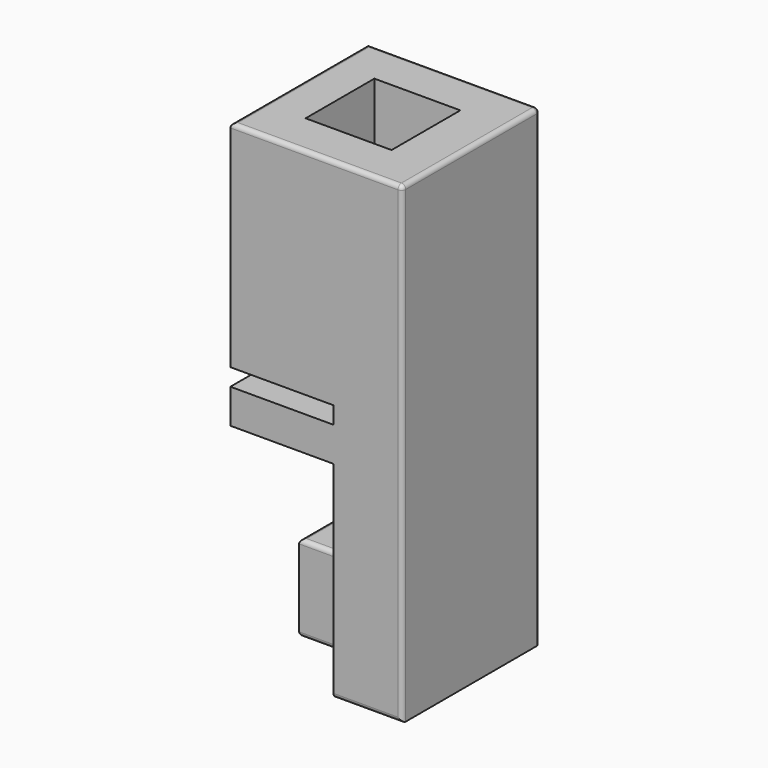
from build123d import *

# Parameters (mm, degrees)
F0_W     = 12
F0_H     = 4
F1_DEPTH = 20
F2_W     = 5
F2_H     = 10
F3_DEPTH = 10
F4_DEPTH = 20
F5_R     = 0.5
F6_W     = 10
F6_H     = 10
F7_DEPTH = 15


with BuildPart() as f1:
    # F0 (on Front) → F1 (new body)
    with BuildSketch(Plane.XZ):
        Polygon((2.1224494493, 11), (-17.8775505507, 11), (-17.8775505507, 6), (-5.8775505507, 6), (2.1224494493, 6), align=None)
        Polygon((2.1224494493, -24), (2.1224494493, 6), (-5.8775505507, 6), (-5.8775505507, 4), (-5.8775505507, 0), (-5.8775505507, -14), (-5.8775505507, -24), align=None)
        with Locations((-11.8775505507, 2)):
            Rectangle(F0_W, F0_H)
    extrude(amount=F1_DEPTH)

    # F2 (on face) → F3 (join)
    with BuildSketch(Plane(origin=(-5.8775505507, 0, 0), x_dir=(0, -1, 0), z_dir=(-1, 0, 0))):
        with Locations((10, -19)):
            Rectangle(F2_W, F2_H)
    extrude(amount=F3_DEPTH)

    # F4 (add): a face of the model
    f4_faces = [f1.faces().sort_by_distance(p)[0] for p in [
        (-7.8775505507, -10, 11),
    ]]
    extrude(f4_faces, amount=F4_DEPTH)

    # F5
    f5_edges = [f1.edges().sort_by_distance(p)[0] for p in [
        (2.122449, -20, 3.5),
        (2.122449, 0, 3.5),
        (-1.877551, -20, -24),
        (-1.877551, 0, -24),
        (-10.877551, -12.5, -14),
        (-10.877551, -7.5, -14),
        (-15.877551, -10, -14),
        (-15.877551, -10, -24),
        (-10.877551, -12.5, -24),
        (-10.877551, -7.5, -24),
        (-7.877551, -20, 31),
        (-17.877551, -10, 31),
        (-7.877551, 0, 31),
        (2.122449, -10, 31),
    ]]
    fillet(f5_edges, radius=F5_R)

    # F6 (on face) → F7 (cut)
    with BuildSketch(Plane.XY.offset(31)):
        with Locations((-8.1275505507, -10)):
            Rectangle(F6_W, F6_H)
    extrude(amount=-F7_DEPTH, mode=Mode.SUBTRACT)


solid = f1.part
